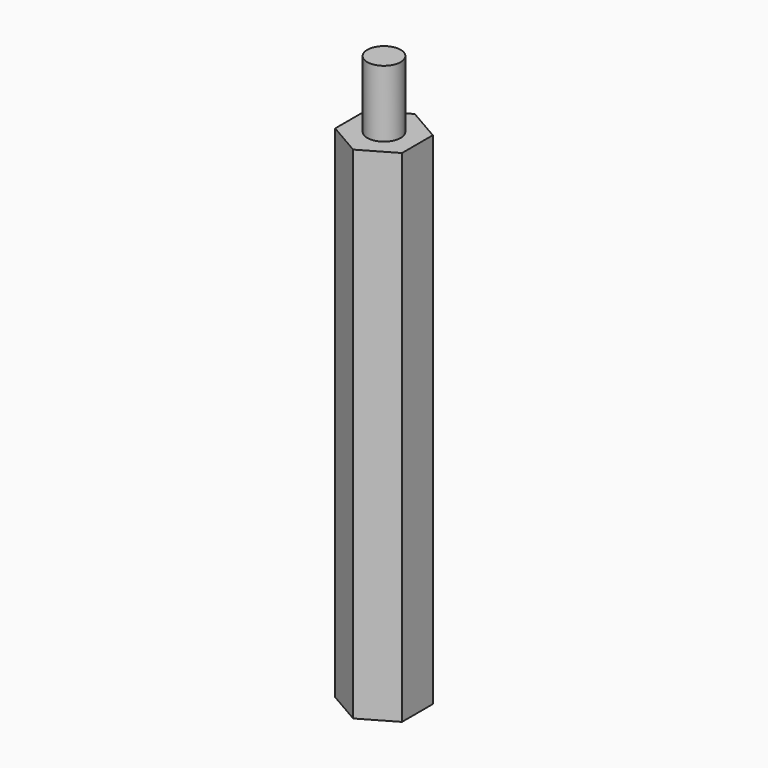
from build123d import *

# Parameters (mm, degrees)
F1_DEPTH = 45
F2_R     = 1.5
F3_DEPTH = 6
F4_R     = 1.5
F5_DEPTH = 6


with BuildPart() as f1:
    # F0 (on Top) → F1 (new body)
    with BuildSketch(Plane.XY):
        Polygon((3, -1.7320508076), (3, 1.7320508076), (0, 3.4641016151), (-3, 1.7320508076), (-3, -1.7320508076), (0, -3.4641016151), align=None)
    extrude(amount=F1_DEPTH)

    # F2 (on face) → F3 (join)
    with BuildSketch(Plane.XY.offset(45)):
        Circle(F2_R)
    extrude(amount=F3_DEPTH)

    # F4 (on face) → F5 (cut)
    with BuildSketch(Plane(origin=(0, 0, 0), x_dir=(1, 0, 0), z_dir=(0, 0, -1))):
        Circle(F4_R)
    extrude(amount=-F5_DEPTH, mode=Mode.SUBTRACT)


solid = f1.part
